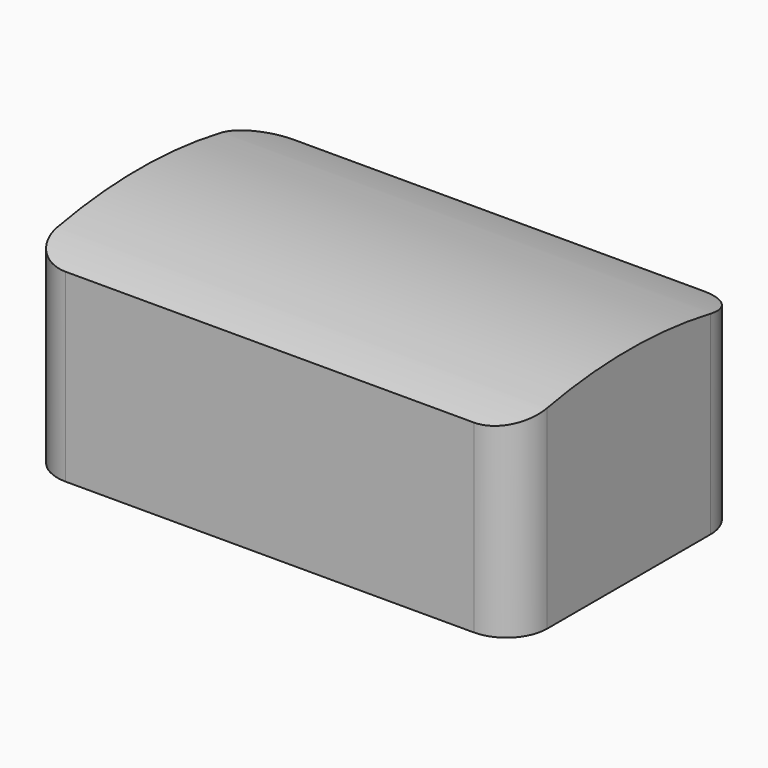
from build123d import *

# Parameters (mm, degrees)
F1_DEPTH = 6
F2_R     = 1


with BuildPart() as f1:
    # F0 (on Right) → F1 (new body, symmetric)
    with BuildSketch(Plane.YZ):
        with BuildLine():
            Line((-3.5, -2.264152), (3.5, -2.264152))
            Line((3.5, -2.264152), (3.5, 2.264152))
            ThreePointArc((3.5, 2.264152), (0, 2.735848), (-3.5, 2.264152))
            Line((-3.5, 2.264152), (-3.5, -2.264152))
        make_face()
    extrude(amount=F1_DEPTH, both=True)

    # F2
    f2_edges = [f1.edges().sort_by_distance(p)[0] for p in [
        (6, -3.5, 0),
        (6, 3.5, 0),
        (-6, 3.5, 0),
        (-6, -3.5, 0),
    ]]
    fillet(f2_edges, radius=F2_R)


solid = f1.part
